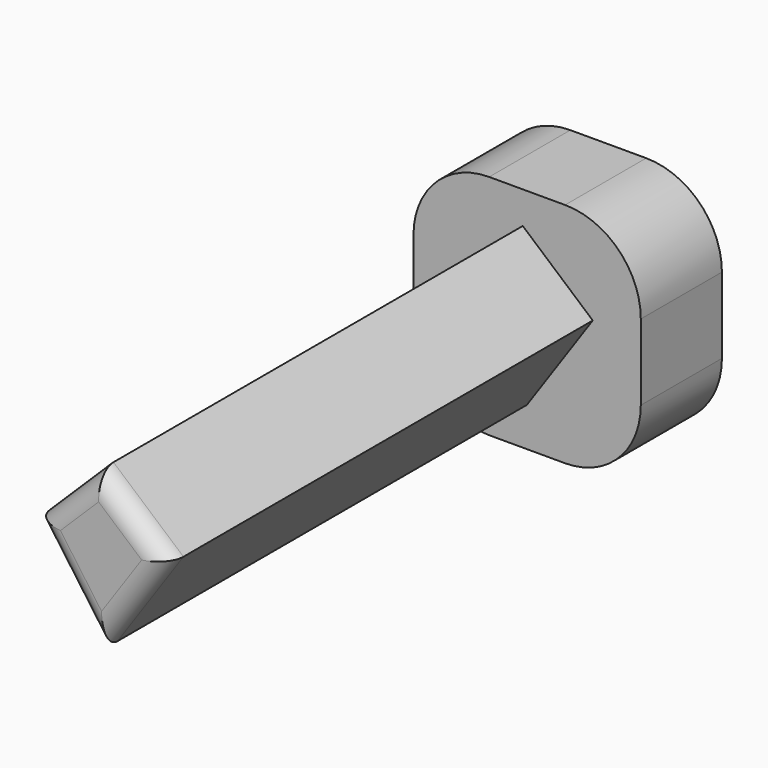
from build123d import *

# Parameters (mm, degrees)
F1_DEPTH      = 150
F2_W          = 57.983538
F2_H          = 25.869577
F3_DEPTH      = 26
F3_DEPTH_BACK = 32
F4_R          = 19.313708
F5_R          = 5


with BuildPart() as f1:
    # F0 (on Front) → F1 (new body)
    with BuildSketch(Plane.XZ):
        Polygon((-16.769175, 1.928175), (0.331647, -22.070456), (17.145061, 2.359288), (-0.707533, 17.782993), align=None)
    extrude(amount=F1_DEPTH)

    # F2 (on Top) → F3 (join, two sides)
    with BuildSketch(Plane.XY) as f3_sk:
        with Locations((0.403912, -1.548561)):
            Rectangle(F2_W, F2_H)
    extrude(amount=F3_DEPTH)
    extrude(f3_sk.sketch, amount=-F3_DEPTH_BACK)

    # F4
    f4_edges = [f1.edges().sort_by_distance(p)[0] for p in [
        (-28.587857, -1.548562, -32),
        (29.395681, -1.548562, -32),
        (29.395681, -1.548562, 26),
        (-28.587857, -1.548562, 26),
    ]]
    fillet(f4_edges, radius=F4_R)

    # F5
    f5_edges = [f1.edges().sort_by_distance(p)[0] for p in [
        (8.218764, -150, 10.071141),
        (8.738354, -150, -9.855584),
        (-8.738354, -150, 9.855584),
        (-8.218764, -150, -10.071141),
    ]]
    fillet(f5_edges, radius=F5_R)


solid = f1.part
